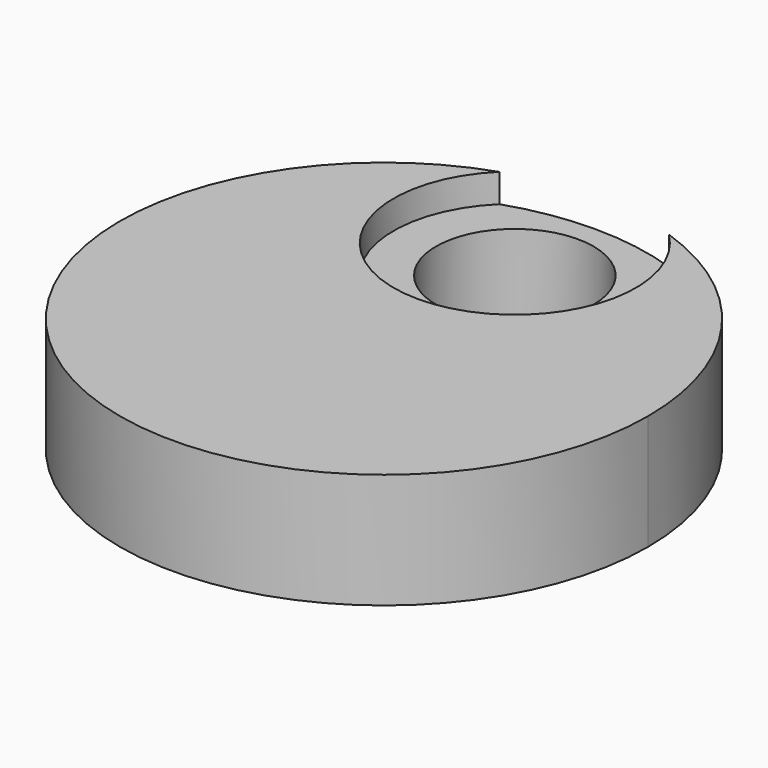
from build123d import *

# Parameters (mm, degrees)
F1_DEPTH = 19
F0_R     = 13
F2_DEPTH = 14.3


with BuildPart() as f1:
    # F0 (on Top) → F1 (new body)
    with BuildSketch(Plane.XY):
        with BuildLine():
            ThreePointArc((-43.74936, 41.121258), (-55.170253, -35.605884), (13.837673, -0.174298))
            ThreePointArc((13.837673, -0.174298), (5.669259, 25.233628), (-15.775294, 41.121258))
            ThreePointArc((-15.775294, 41.121258), (-29.762327, 6.825702), (-43.74936, 41.121258))
        make_face()
    extrude(amount=F1_DEPTH)

    # F0 (on Top) → F2 (join)
    with BuildSketch(Plane.XY):
        with BuildLine():
            ThreePointArc((-43.74936, 41.121258), (-29.762327, 6.825702), (-15.775294, 41.121258))
            ThreePointArc((-15.775294, 41.121258), (-29.762327, 43.425702), (-43.74936, 41.121258))
        make_face()
        with Locations((-29.762327, 26.825702)):
            Circle(F0_R, mode=Mode.SUBTRACT)
    extrude(amount=F2_DEPTH)


solid = f1.part
